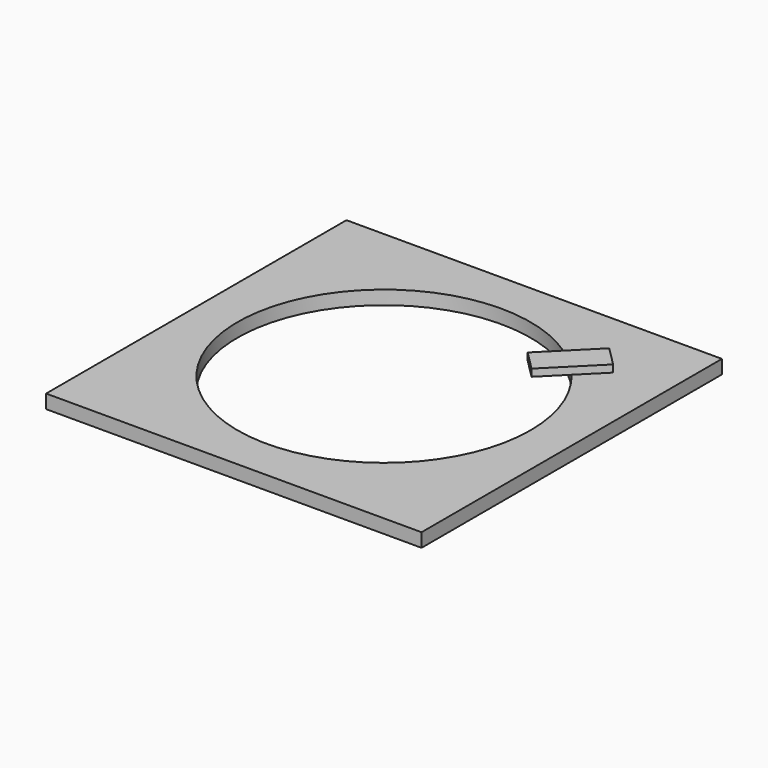
from build123d import *

# Parameters (mm, degrees)
F0_W     = 520.7
F0_H     = 520.7
F0_R     = 203.2
F1_DEPTH = 19.05
F3_DEPTH = 10


with BuildPart() as f1:
    # F0 (on Top) → F1 (new body)
    with BuildSketch(Plane.XY):
        Rectangle(F0_W, F0_H)
        Circle(F0_R, mode=Mode.SUBTRACT)
    extrude(amount=F1_DEPTH)

    # F2 (on face) → F3 (join)
    with BuildSketch(Plane.XY.offset(19.05)):
        Polygon((98.70539, 125.646158), (125.646158, 98.70539), (188.507951, 161.567183), (161.567183, 188.507951), align=None)
    extrude(amount=F3_DEPTH)


solid = f1.part
